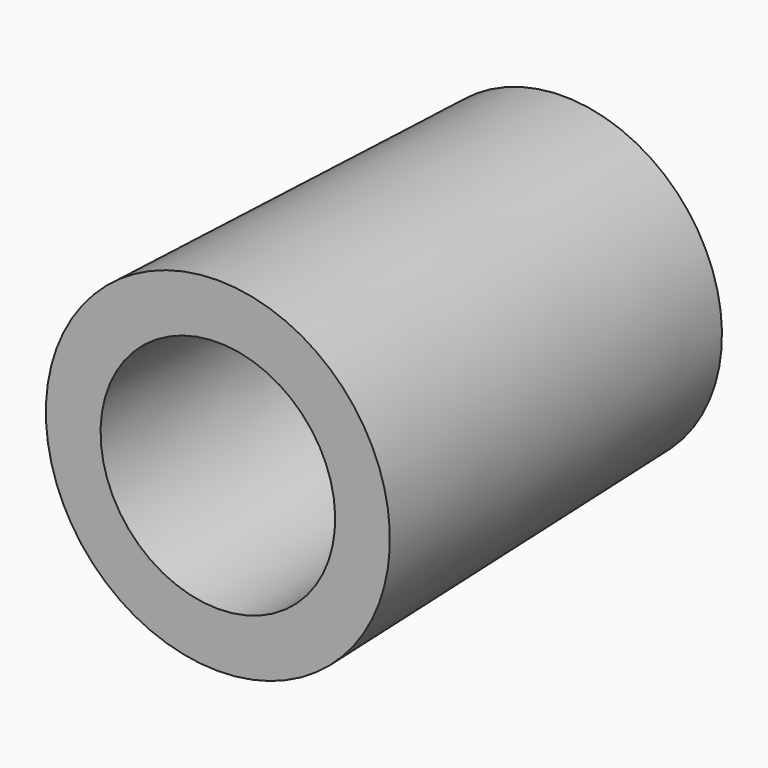
from build123d import *


with BuildPart() as f1:
    # F0 (on Right) → F1 (revolve)
    with BuildSketch(Plane.YZ):
        Polygon((40.769146, -44.730998), (40.769146, -43.730998), (32.872946, -43.975998), (32.872946, -44.975998), align=None)
    revolve(axis=Axis((0, 36.821046, -41.830998), (0, -1, 0)))


solid = f1.part
